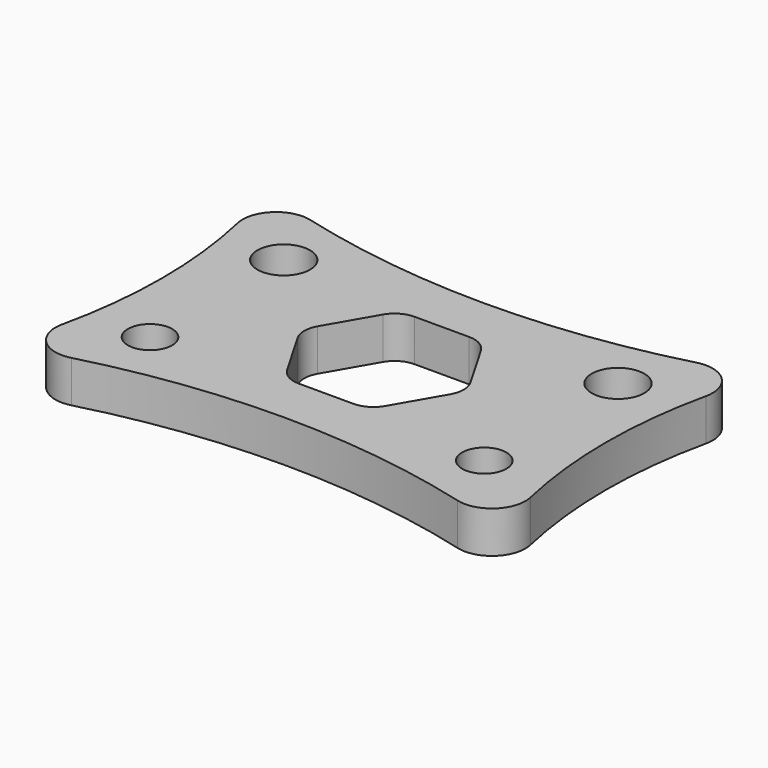
from build123d import *

# Parameters (mm, degrees)
F0_R     = 2.65
F0_R_2   = 3.15
F1_DEPTH = 5
F2_R     = 4
F3_R     = 3


with BuildPart() as f1:
    # F0 (on Top) → F1 (new body)
    with BuildSketch(Plane.XY):
        with BuildLine():
            ThreePointArc((-30, -20), (0, -14.852814), (30, -20))
            ThreePointArc((30, -20), (26.568542, 0), (30, 20))
            ThreePointArc((30, 20), (0, 14.852814), (-30, 20))
            ThreePointArc((-30, 20), (-26.568542, 0), (-30, -20))
        make_face()
        with Locations((-20, -10)):
            Circle(F0_R, mode=Mode.SUBTRACT)
        with Locations((20, -10)):
            Circle(F0_R, mode=Mode.SUBTRACT)
        with Locations((-20, 10)):
            Circle(F0_R_2, mode=Mode.SUBTRACT)
        Polygon((10, 0), (5, -8.660254), (-5, -8.660254), (-10, 0), (-5, 8.660254), (5, 8.660254), align=None, mode=Mode.SUBTRACT)
        with Locations((20, 10)):
            Circle(F0_R_2, mode=Mode.SUBTRACT)
    extrude(amount=F1_DEPTH)

    # F2
    f2_edges = [f1.edges().sort_by_distance(p)[0] for p in [
        (30, 20, 2.5),
        (-30, 20, 2.5),
        (-30, -20, 2.5),
        (30, -20, 2.5),
    ]]
    fillet(f2_edges, radius=F2_R)

    # F3
    f3_edges = [f1.edges().sort_by_distance(p)[0] for p in [
        (5, 8.660254, 2.5),
        (-5, 8.660254, 2.5),
        (10, 0, 2.5),
        (5, -8.660254, 2.5),
        (-5, -8.660254, 2.5),
        (-10, 0, 2.5),
    ]]
    fillet(f3_edges, radius=F3_R)


solid = f1.part
